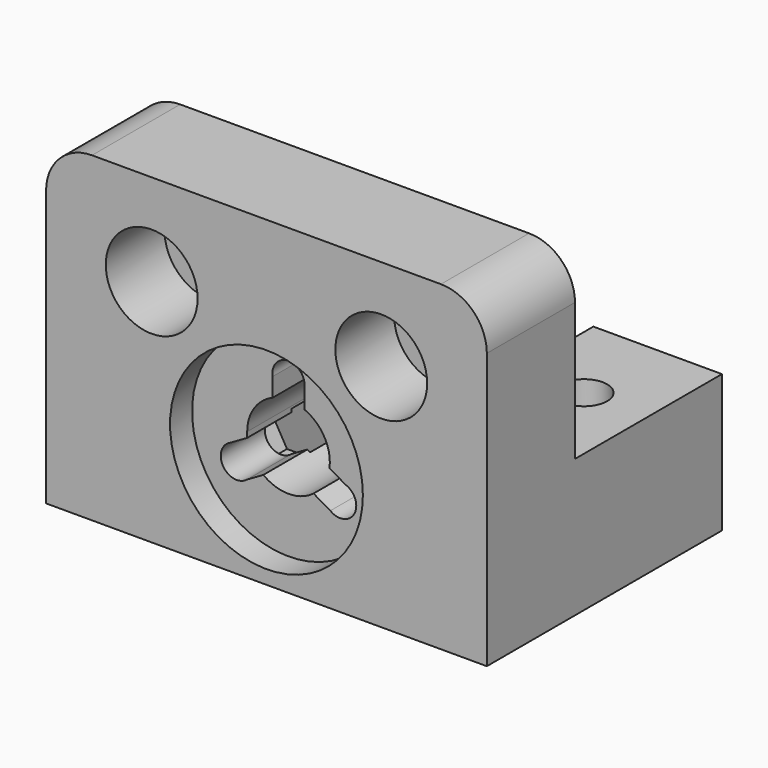
from build123d import *

# Parameters (mm, degrees)
F0_W      = 48
F0_H      = 35
F0_R      = 10.5
F0_R_2    = 5
F0_R_3    = 2.5
F1_DEPTH  = 12
F2_DEPTH  = 8
F3_DEPTH  = 3
F5_DEPTH  = 3
F4_W      = 14
F4_H      = 15
F6_DEPTH  = 20
F7_R      = 2.5
F8_DEPTH  = 35.001
F9_R      = 5
F7_R_2    = 5
F10_DEPTH = 11


with BuildPart() as f1:
    # F0 (on Front) → F1 (new body)
    with BuildSketch(Plane.XZ):
        with Locations((0, 5.5)):
            Rectangle(F0_W, F0_H)
        Circle(F0_R, mode=Mode.SUBTRACT)
        with Locations((-12.5, 13)):
            Circle(F0_R_2, mode=Mode.SUBTRACT)
        with Locations((12.5, 13)):
            Circle(F0_R_2, mode=Mode.SUBTRACT)
        with Locations((-12.5, 13)):
            Circle(F0_R_2)
        with Locations((-12.5, 13)):
            Circle(F0_R_3, mode=Mode.SUBTRACT)
        with Locations((12.5, 13)):
            Circle(F0_R_2)
        with Locations((12.5, 13)):
            Circle(F0_R_3, mode=Mode.SUBTRACT)
        Circle(F0_R)
        with BuildLine():
            ThreePointArc((2.729107717, -3.5779842186), (-0.0063032395, -4.4999955855), (-2.7391205053, -3.5703247551))
            Line((-2.7391205053, -3.5703247551), (-4.5, -4.5869690054))
            ThreePointArc((-4.5, -4.5869690054), (-7.1256799724, -4.1571622293), (-6.2921852092, -1.6304616808))
            Line((-6.2921852092, -1.6304616808), (-4.5, -0.5957430678))
            Line((-4.5, -0.5957430678), (-4.5, 0))
            ThreePointArc((-4.5, 0), (-3.7417203652, 2.49990574), (-1.722431685, 4.1573103192))
            Line((-1.722431685, 4.1573103192), (-1.722431685, 6.1905988197))
            ThreePointArc((-1.722431685, 6.1905988197), (-0.1553134752, 8.2430942959), (1.75, 6.5))
            ThreePointArc((1.75, 6.5), (1.7460133012, 6.3819425903), (1.7340713692, 6.2644230769))
            Line((1.7340713692, 6.2644230769), (1.7340713692, 4.1524687219))
            ThreePointArc((1.7340713692, 4.1524687219), (3.9002621137, 2.2445390272), (4.4615521904, -0.5869855641))
            Line((4.4615521904, -0.5869855641), (6.222431685, -1.6036298143))
            ThreePointArc((6.222431685, -1.6036298143), (7.0610723284, -2.243947437), (7.3791651246, -3.25))
            ThreePointArc((7.3791651246, -3.25), (6.3999310593, -4.8211205791), (4.5581138401, -4.6339613961))
            Line((4.5581138401, -4.6339613961), (2.729107717, -3.5779842186))
        make_face(mode=Mode.SUBTRACT)
    extrude(amount=-F1_DEPTH)

    # F0 (on Front) → F2 (cut)
    with BuildSketch(Plane.XZ):
        with Locations((12.5, 13)):
            Circle(F0_R_2)
        with Locations((12.5, 13)):
            Circle(F0_R_3, mode=Mode.SUBTRACT)
        with Locations((-12.5, 13)):
            Circle(F0_R_2)
        with Locations((-12.5, 13)):
            Circle(F0_R_3, mode=Mode.SUBTRACT)
    extrude(amount=-F2_DEPTH, mode=Mode.SUBTRACT)

    # F0 (on Front) → F3 (cut)
    with BuildSketch(Plane.XZ):
        Circle(F0_R)
        with BuildLine():
            ThreePointArc((2.729107717, -3.5779842186), (-0.0063032395, -4.4999955855), (-2.7391205053, -3.5703247551))
            Line((-2.7391205053, -3.5703247551), (-4.5, -4.5869690054))
            ThreePointArc((-4.5, -4.5869690054), (-7.1256799724, -4.1571622293), (-6.2921852092, -1.6304616808))
            Line((-6.2921852092, -1.6304616808), (-4.5, -0.5957430678))
            Line((-4.5, -0.5957430678), (-4.5, 0))
            ThreePointArc((-4.5, 0), (-3.7417203652, 2.49990574), (-1.722431685, 4.1573103192))
            Line((-1.722431685, 4.1573103192), (-1.722431685, 6.1905988197))
            ThreePointArc((-1.722431685, 6.1905988197), (-0.1553134752, 8.2430942959), (1.75, 6.5))
            ThreePointArc((1.75, 6.5), (1.7460133012, 6.3819425903), (1.7340713692, 6.2644230769))
            Line((1.7340713692, 6.2644230769), (1.7340713692, 4.1524687219))
            ThreePointArc((1.7340713692, 4.1524687219), (3.9002621137, 2.2445390272), (4.4615521904, -0.5869855641))
            Line((4.4615521904, -0.5869855641), (6.222431685, -1.6036298143))
            ThreePointArc((6.222431685, -1.6036298143), (7.0610723284, -2.243947437), (7.3791651246, -3.25))
            ThreePointArc((7.3791651246, -3.25), (6.3999310593, -4.8211205791), (4.5581138401, -4.6339613961))
            Line((4.5581138401, -4.6339613961), (2.729107717, -3.5779842186))
        make_face(mode=Mode.SUBTRACT)
    extrude(amount=-F3_DEPTH, mode=Mode.SUBTRACT)

    # F4 (on face) → F5 (cut)
    with BuildSketch(Plane(origin=(0, 12, 0), x_dir=(-1, 0, 0), z_dir=(0, 1, 0))):
        with BuildLine():
            ThreePointArc((-4.4615521904, -0.5869855641), (-4.4804704843, -0.4187890156), (-4.4930501889, -0.25))
            Line((-4.4930501889, -0.25), (-7.3612159322, -0.25))
            Line((-7.3612159322, -0.25), (-9.0932667397, -3.25))
            Line((-9.0932667397, -3.25), (-7.3612159322, -6.25))
            Line((-7.3612159322, -6.25), (-3.897114317, -6.25))
            Line((-3.897114317, -6.25), (-2.4630314454, -3.7660956041))
            ThreePointArc((-2.4630314454, -3.7660956041), (-2.597772843, -3.6744491092), (-2.729107717, -3.5779842186))
            Line((-2.729107717, -3.5779842186), (-4.5581138401, -4.6339613961))
            ThreePointArc((-4.5581138401, -4.6339613961), (-7.1630480845, -4.0924387607), (-6.222431685, -1.6036298143))
            Line((-6.222431685, -1.6036298143), (-4.4615521904, -0.5869855641))
        make_face()
        with BuildLine():
            Line((1.7320508076, 9.5), (-1.7320508076, 9.5))
            Line((-1.7320508076, 9.5), (-3.4641016151, 6.5))
            Line((-3.4641016151, 6.5), (-2.0300187435, 4.0160956041))
            ThreePointArc((-2.0300187435, 4.0160956041), (-1.883279852, 4.0869618299), (-1.7340713692, 4.1524687219))
            Line((-1.7340713692, 4.1524687219), (-1.7340713692, 6.2644230769))
            ThreePointArc((-1.7340713692, 6.2644230769), (0.0373681121, 8.24960099), (1.722431685, 6.1905988197))
            Line((1.722431685, 6.1905988197), (1.722431685, 4.1573103192))
            ThreePointArc((1.722431685, 4.1573103192), (1.8775533158, 4.0895957681), (2.0300187435, 4.0160956041))
            Line((2.0300187435, 4.0160956041), (3.4641016151, 6.5))
            Line((3.4641016151, 6.5), (1.7320508076, 9.5))
        make_face()
        with BuildLine():
            Line((7.3612159322, -0.25), (4.5, -0.25))
            Line((4.5, -0.25), (4.5, -0.5957430678))
            Line((4.5, -0.5957430678), (6.2921852092, -1.6304616808))
            ThreePointArc((6.2921852092, -1.6304616808), (7.1256799724, -4.1571622293), (4.5, -4.5869690054))
            Line((4.5, -4.5869690054), (2.7391205053, -3.5703247551))
            ThreePointArc((2.7391205053, -3.5703247551), (2.6029171685, -3.6708067525), (2.4630314454, -3.7660956041))
            Line((2.4630314454, -3.7660956041), (3.897114317, -6.25))
            Line((3.897114317, -6.25), (7.3612159322, -6.25))
            Line((7.3612159322, -6.25), (9.0932667397, -3.25))
            Line((9.0932667397, -3.25), (7.3612159322, -0.25))
        make_face()
    extrude(amount=-F5_DEPTH, mode=Mode.SUBTRACT)

    # F4 (on face) → F6 (join)
    with BuildSketch(Plane(origin=(0, 12, 0), x_dir=(-1, 0, 0), z_dir=(0, 1, 0))):
        with Locations((-17, -4.5)):
            Rectangle(F4_W, F4_H)
        with Locations((17, -4.5)):
            Rectangle(F4_W, F4_H)
    extrude(amount=F6_DEPTH)

    # F7 (on face) → F8 (cut, through all)
    with BuildSketch(Plane(origin=(0, 0, -12), x_dir=(1, 0, 0), z_dir=(0, 0, -1))):
        with Locations((-17, -22)):
            Circle(F7_R)
        with Locations((17, -22)):
            Circle(F7_R)
    extrude(amount=-F8_DEPTH, mode=Mode.SUBTRACT)

    # F9
    f9_edges = [f1.edges().sort_by_distance(p)[0] for p in [
        (-24, 6, 23),
        (24, 6, 23),
    ]]
    fillet(f9_edges, radius=F9_R)

    # F7 (on face) → F10 (cut)
    with BuildSketch(Plane(origin=(0, 0, -12), x_dir=(1, 0, 0), z_dir=(0, 0, -1))):
        with Locations((-17, -22)):
            Circle(F7_R_2)
        with Locations((-17, -22)):
            Circle(F7_R, mode=Mode.SUBTRACT)
        with Locations((17, -22)):
            Circle(F7_R_2)
        with Locations((17, -22)):
            Circle(F7_R, mode=Mode.SUBTRACT)
    extrude(amount=-F10_DEPTH, mode=Mode.SUBTRACT)


solid = f1.part
